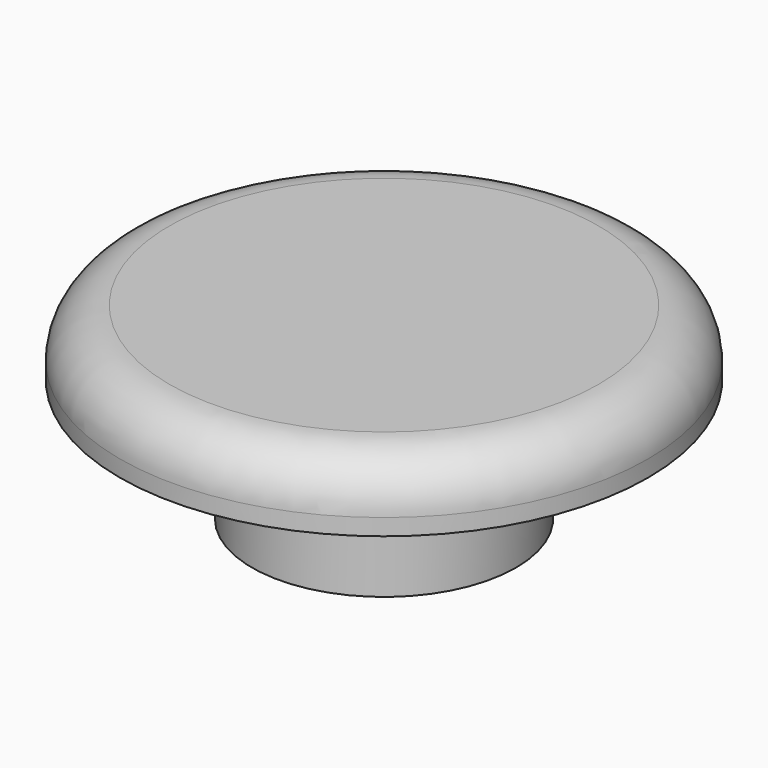
from build123d import *

# Parameters (mm, degrees)
F0_R     = 8
F0_R_2   = 4
F0_R_3   = 2
F1_DEPTH = 2
F2_DEPTH = 3.7
F3_R     = 1.5


with BuildPart() as f1:
    # F0 (on Top) → F1 (new body)
    with BuildSketch(Plane.XY):
        Circle(F0_R)
        Circle(F0_R_2, mode=Mode.SUBTRACT)
        Circle(F0_R_2)
        Circle(F0_R_3, mode=Mode.SUBTRACT)
        Circle(F0_R_3)
    extrude(amount=F1_DEPTH)

    # F0 (on Top) → F2 (join)
    with BuildSketch(Plane.XY):
        Circle(F0_R_2)
        Circle(F0_R_3, mode=Mode.SUBTRACT)
    extrude(amount=-F2_DEPTH)

    # F3
    f3_edges = [f1.edges().sort_by_distance(p)[0] for p in [
        (-8, 0, 2),
    ]]
    fillet(f3_edges, radius=F3_R)


solid = f1.part
